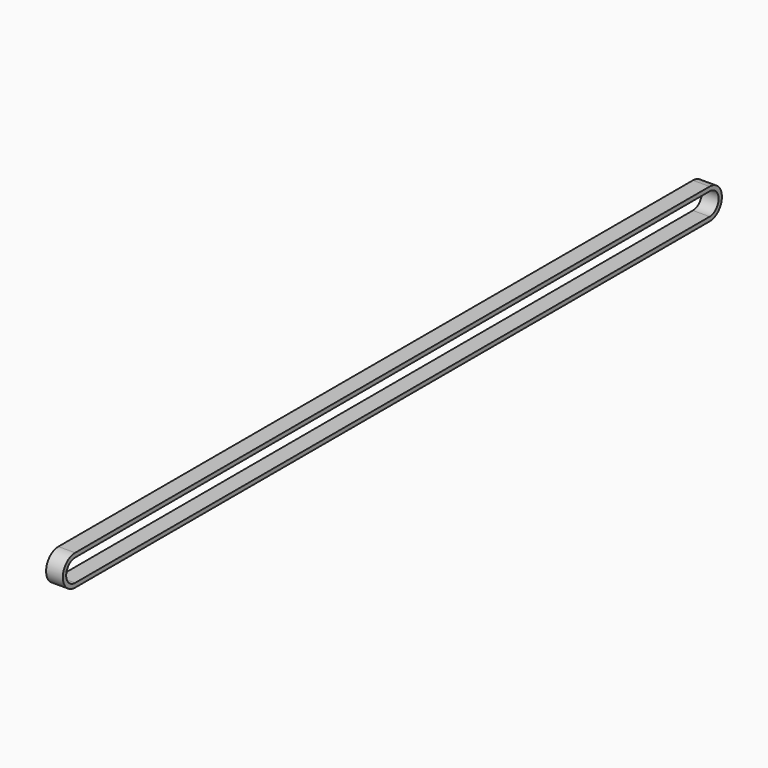
from build123d import *

# Parameters (mm, degrees)
PAD_DEPTH = 3


with BuildPart() as part:
    # Sketch → Pad (new body, symmetric)
    with BuildSketch(Plane.YZ):
        with BuildLine():
            Line((-140.250008, 5.5), (143.850007, 5.5))
            ThreePointArc((143.850007, -5.5), (149.35, 0), (143.850007, 5.5))
            Line((-140.250008, -5.5), (143.850007, -5.5))
            ThreePointArc((-140.250008, 5.5), (-145.75, 0), (-140.250008, -5.5))
        make_face()
        with BuildLine():
            Line((-140.250008, 4), (143.850007, 4))
            ThreePointArc((143.850007, -4), (147.85, 0), (143.850007, 4))
            Line((-140.250008, -4), (143.850007, -4))
            ThreePointArc((-140.250008, 4), (-144.25, 0), (-140.250008, -4))
        make_face(mode=Mode.SUBTRACT)
    extrude(amount=PAD_DEPTH, both=True)


with BuildPart() as part_1:
    # Body placement: moved
    add(part.part.moved(Location((0, 0, -1.4))))


solid = part_1.part
